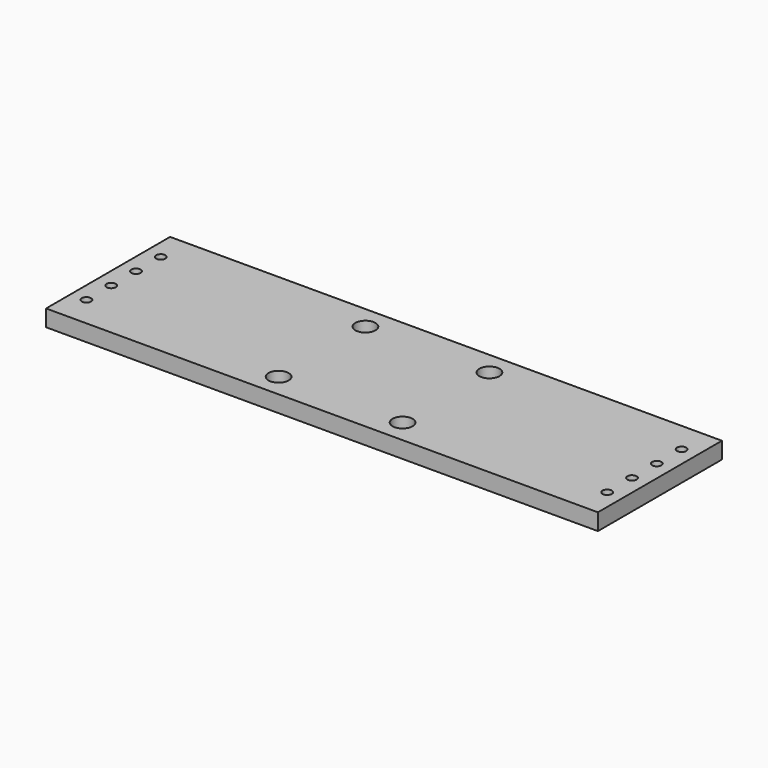
from build123d import *

# Parameters (mm, degrees)
F0_W     = 356
F0_H     = 100
F0_R     = 6.5
F1_DEPTH = 10.7
F2_R     = 3
F3_DEPTH = 25


with BuildPart() as f1:
    # F0 (on Top) → F1 (new body)
    with BuildSketch(Plane.XY):
        Rectangle(F0_W, F0_H)
        with Locations((-40, -35)):
            Circle(F0_R, mode=Mode.SUBTRACT)
        with Locations((40, -35)):
            Circle(F0_R, mode=Mode.SUBTRACT)
        with Locations((-40, 35)):
            Circle(F0_R, mode=Mode.SUBTRACT)
        with Locations((40, 35)):
            Circle(F0_R, mode=Mode.SUBTRACT)
    extrude(amount=F1_DEPTH)

    # F2 (on face) → F3 (cut)
    with BuildSketch(Plane.XY.offset(10.7)):
        with Locations((168, -30)):
            Circle(F2_R)
        with Locations((168, -10)):
            Circle(F2_R)
        with Locations((168, 10)):
            Circle(F2_R)
        with Locations((168, 30)):
            Circle(F2_R)
        with Locations((-168, -30)):
            Circle(F2_R)
        with Locations((-168, 10)):
            Circle(F2_R)
        with Locations((-168, 30)):
            Circle(F2_R)
        with Locations((-168, -10)):
            Circle(F2_R)
    extrude(amount=-F3_DEPTH, mode=Mode.SUBTRACT)


solid = f1.part
